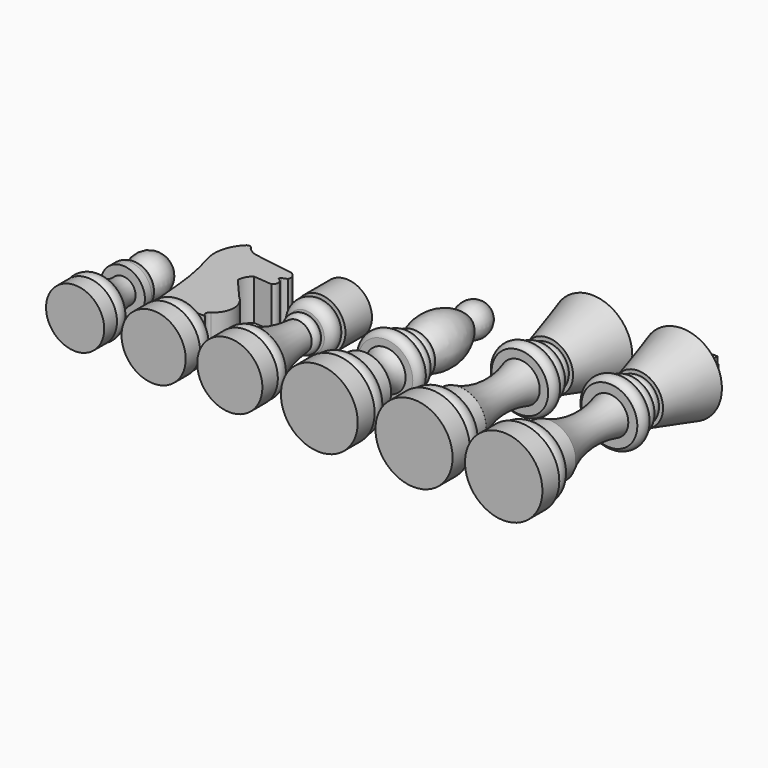
from build123d import *

# Parameters (mm, degrees)
F2_DEPTH = 2.54
F9_DEPTH = 10.16


with BuildPart() as f1:
    # F0 (on Top) → F1 (revolve)
    with BuildSketch(Plane.XY):
        with BuildLine():
            Line((0, 110.9642758965), (0, 0))
            Line((0, 0), (19.2919895053, -0.001945148))
            Line((19.2919895053, -0.001945148), (19.2919895053, 10.4918502411))
            Line((19.2919895053, 10.4918502411), (15.6080285741, 10.4918502411))
            ThreePointArc((15.6080285741, 10.4918502411), (17.8916221413, 15.672053517), (13.6049081358, 19.369808051))
            Line((13.6049081358, 19.369808051), (13.3906938136, 19.3858295679))
            Line((13.3906938136, 19.3858295679), (13.3906938136, 28.1178001314))
            ThreePointArc((13.3906938136, 28.1178001314), (7.7764554734, 46.5707095315), (9.4253802672, 65.7881647348))
            Line((9.4253802672, 65.7881647348), (13.9313237742, 65.7881647348))
            ThreePointArc((13.9313237742, 65.7881647348), (16.098702348, 69.740338154), (13.1350932643, 73.1365457177))
            Line((13.1350932643, 73.1365457177), (11.5236677229, 73.1365457177))
            ThreePointArc((11.5236677229, 73.1365457177), (13.3580178063, 76.0566815734), (11.5236677229, 78.9768174291))
            Line((11.5236677229, 78.9768174291), (9.4569297507, 78.9768174291))
            ThreePointArc((9.4569297507, 78.9768174291), (11.0133093368, 81.1224949937), (10.4017937556, 83.7016999722))
            Line((10.4017937556, 83.7016999722), (12.3997535557, 83.7016999722))
            Line((12.3997535557, 83.7016999722), (19.9190936983, 110.9642758965))
            Line((19.9190936983, 110.9642758965), (4.1418713517, 110.9642758965))
            Line((4.1418713517, 110.9642758965), (0, 110.9642758965))
        make_face()
    revolve(axis=Axis((0, 63.6315952757, 0), (0, 1, 0)))

    # F0 (on Top) → F2 (join, symmetric)
    with BuildSketch(Plane.XY):
        Polygon((-5.4727485403, 110.9642758965), (0, 110.9642758965), (0, 127.2631905514), (-5.4727485403, 127.2631905514), (-5.4727485403, 122.3715022206), (-10.4248970747, 122.3715022206), (-10.4248970747, 114.5452857018), (-5.4727485403, 114.5452857018), align=None)
        Polygon((0, 127.2631905514), (0, 110.9642758965), (4.1418713517, 110.9642758965), (4.1418713517, 114.5452857018), (9.0984776616, 114.5452857018), (9.0984776616, 122.3715022206), (4.7701047733, 122.3715022206), (4.7701047733, 127.2631905514), align=None)
    extrude(amount=F2_DEPTH, both=True)


with BuildPart() as f3:
    # F0 (on Top) → F3 (revolve)
    with BuildSketch(Plane.XY):
        with BuildLine():
            Line((-44.6819290519, 110.9151691198), (-44.6819290519, -0.001945148))
            Line((-44.6819290519, -0.001945148), (-25.4739355296, -0.001945148))
            Line((-25.4739355296, -0.001945148), (-25.4739355296, 10.6893107295))
            Line((-25.4739355296, 10.6893107295), (-28.511935845, 10.6893107295))
            ThreePointArc((-28.511935845, 10.6893107295), (-26.3364998951, 14.9219157174), (-28.511935845, 19.1545207053))
            Line((-28.511935845, 19.1545207053), (-31.1834365129, 19.1545207053))
            Line((-31.1834365129, 19.1545207053), (-31.1834365129, 28.0240885913))
            ThreePointArc((-31.1834365129, 28.0240885913), (-36.8406358688, 46.5976117226), (-34.7773432732, 65.9036338329))
            Line((-34.7773432732, 65.9036338329), (-30.5754560977, 65.9036338329))
            ThreePointArc((-30.5754560977, 65.9036338329), (-28.4739917253, 69.3723969162), (-30.5754560977, 72.8411599994))
            Line((-30.5754560977, 72.8411599994), (-33.0285541713, 72.8411599994))
            ThreePointArc((-33.0285541713, 72.8411599994), (-31.1298586485, 75.9327672422), (-33.0285541713, 79.024374485))
            Line((-33.0285541713, 79.024374485), (-35.0531898439, 79.024374485))
            ThreePointArc((-35.0531898439, 79.024374485), (-33.8060918807, 81.104190004), (-34.3190319836, 83.4743753076))
            Line((-34.3190319836, 83.4743753076), (-32.2588346899, 83.4743753076))
            Line((-32.2588346899, 83.4743753076), (-24.6908664703, 110.9151691198))
            Line((-24.6908664703, 110.9151691198), (-40.1440411806, 110.9151691198))
            Line((-40.1440411806, 110.9151691198), (-44.6819290519, 110.9151691198))
        make_face()
    revolve(axis=Axis((-44.6819290519, 55.4566119859, 0), (0, -1, 0)))

    # F0 (on Top) → F4 (revolve)
    with BuildSketch(Plane.XY):
        with BuildLine():
            Line((-44.6819290519, 116.6106536984), (-44.6819290519, 110.9151691198))
            Line((-44.6819290519, 110.9151691198), (-40.1440411806, 110.9151691198))
            ThreePointArc((-40.1440411806, 110.9151691198), (-41.3312766563, 114.6247646251), (-44.6819290519, 116.6106536984))
        make_face()
    revolve(axis=Axis((-44.6819290519, 113.7629114091, 0), (0, 1, 0)))


with BuildPart() as f5:
    # F0 (on Top) → F5 (revolve)
    with BuildSketch(Plane.XY):
        with BuildLine():
            Line((-91.8388962746, 104.1856631637), (-91.8388962746, -0.001945148))
            Line((-91.8388962746, -0.001945148), (-72.7043747902, -0.001945148))
            Line((-72.7043747902, -0.001945148), (-72.7043747902, 10.5059081689))
            Line((-72.7043747902, 10.5059081689), (-75.9331434965, 10.5059081689))
            ThreePointArc((-75.9331434965, 10.5059081689), (-73.4703010683, 15.3385724057), (-77.3300677538, 19.1494040191))
            Line((-77.3300677538, 19.1494040191), (-78.3777683973, 19.1494040191))
            Line((-78.3777683973, 19.1494040191), (-78.3777683973, 27.8802085668))
            ThreePointArc((-78.3777683973, 27.8802085668), (-83.4378897739, 33.6541272395), (-81.7827805877, 41.1510318518))
            Line((-81.7827805877, 41.1510318518), (-78.2195553184, 41.1510318518))
            ThreePointArc((-78.2195553184, 41.1510318518), (-75.6960897656, 44.7919517756), (-78.2195553184, 48.4328716993))
            Line((-78.2195553184, 48.4328716993), (-80.7495862246, 48.4328716993))
            ThreePointArc((-80.7495862246, 48.4328716993), (-78.4143322205, 51.4579061419), (-80.7495862246, 54.4829405844))
            Line((-80.7495862246, 54.4829405844), (-82.278907299, 54.4829405844))
            ThreePointArc((-82.278907299, 54.4829405844), (-80.7612596429, 57.176085189), (-82.278907299, 59.8692297935))
            Line((-82.278907299, 59.8692297935), (-83.3534598351, 59.8692297935))
            ThreePointArc((-83.3534598351, 59.8692297935), (-79.9398439058, 75.1912832355), (-86.2390846014, 89.569658041))
            ThreePointArc((-86.2390846014, 89.569658041), (-84.3279412306, 98.6825989643), (-91.8388962746, 104.1856631637))
        make_face()
    revolve(axis=Axis((-91.8388962746, 52.0918590078, 0), (0, -1, 0)))


with BuildPart() as f6:
    # F0 (on Top) → F6 (revolve)
    with BuildSketch(Plane.XY):
        with BuildLine():
            Line((-136.4291906357, 72.6398006082), (-136.4291906357, -0.001945148))
            Line((-136.4291906357, -0.001945148), (-120.1965361834, -0.001945148))
            Line((-120.1965361834, -0.001945148), (-120.1965361834, 9.6229044721))
            Line((-120.1965361834, 9.6229044721), (-122.6443201303, 9.6229044721))
            ThreePointArc((-122.6443201303, 9.6229044721), (-120.3352881317, 13.3589948528), (-122.6443201303, 17.0950852334))
            ThreePointArc((-122.6443201303, 17.0950852334), (-127.1921661617, 29.1935850511), (-129.2146742344, 41.9594012201))
            ThreePointArc((-129.2146742344, 41.9594012201), (-127.5682346906, 44.6648448706), (-129.2146742344, 47.3702885211))
            Line((-129.2146742344, 47.3702885211), (-127.228051424, 47.3702885211))
            ThreePointArc((-127.228051424, 47.3702885211), (-124.0595872968, 51.373319225), (-125.9265691042, 56.1249293387))
            Line((-125.9265691042, 56.1249293387), (-123.736448586, 56.1249293387))
            Line((-123.736448586, 56.1249293387), (-123.736448586, 72.6398006082))
            Line((-123.736448586, 72.6398006082), (-136.4291906357, 72.6398006082))
        make_face()
    revolve(axis=Axis((-136.4291906357, 36.3189277301, 0), (0, -1, 0)))


with BuildPart() as f7:
    # F0 (on Top) → F7 (revolve)
    with BuildSketch(Plane.XY):
        with BuildLine():
            Line((-213.4834676981, 55.4568059742), (-213.4834676981, -0.001945148))
            Line((-213.4834676981, -0.001945148), (-198.9903301001, -0.001945148))
            Line((-198.9903301001, -0.001945148), (-198.9903301001, 7.9451035708))
            Line((-198.9903301001, 7.9451035708), (-200.0682353973, 7.9451035708))
            ThreePointArc((-200.0682353973, 7.9451035708), (-198.7346972145, 11.2288412638), (-200.0682353973, 14.5125789568))
            ThreePointArc((-200.0682353973, 14.5125789568), (-205.4658651812, 21.2412907679), (-207.1186453104, 29.7075938433))
            Line((-207.1186453104, 29.7075938433), (-202.4985849857, 29.7075938433))
            Line((-202.4985849857, 29.7075938433), (-202.4985849857, 33.7776392698))
            ThreePointArc((-202.4985849857, 33.7776392698), (-203.3135486382, 36.3865494256), (-205.4686248302, 38.0676873028))
            Line((-205.4686248302, 38.0676873028), (-207.0468163383, 38.6611914787))
            ThreePointArc((-207.0468163383, 38.6611914787), (-204.1418002722, 49.4056717813), (-213.4834676981, 55.4568059742))
        make_face()
    revolve(axis=Axis((-213.4834676981, 27.7274304131, 0), (0, -1, 0)))


with BuildPart() as f8:
    # F0 (on Top) → F8 (revolve)
    with BuildSketch(Plane.XY):
        with BuildLine():
            Line((-174.3871122599, 17.7684053779), (-174.3871122599, -0.001945148))
            Line((-174.3871122599, -0.001945148), (-158.3977043629, -0.001945148))
            Line((-158.3977043629, -0.001945148), (-158.3977043629, 8.8909277692))
            Line((-158.3977043629, 8.8909277692), (-161.0972136259, 8.8909277692))
            ThreePointArc((-161.0972136259, 8.8909277692), (-158.8850630658, 13.9937401169), (-162.9696935415, 17.7684053779))
            Line((-162.9696935415, 17.7684053779), (-174.3871122599, 17.7684053779))
        make_face()
    revolve(axis=Axis((-174.3871122599, 8.8832301149, 0), (0, -1, 0)))

    # F0 (on Top) → F9 (join, symmetric)
    with BuildSketch(Plane.XY):
        with BuildLine():
            Line((-186.3909636555, 17.8088458306), (-174.3871122599, 17.7684053779))
            Line((-174.3871122599, 17.7684053779), (-162.9696935415, 17.7684053779))
            ThreePointArc((-162.9696935415, 17.7684053779), (-164.254830327, 19.6789195761), (-162.9696935415, 21.5894337744))
            ThreePointArc((-162.9696935415, 21.5894337744), (-158.4550103332, 29.6532944259), (-162.1921545406, 38.1056293845))
            Line((-162.1921545406, 38.1056293845), (-172.0369160175, 49.4702458382))
            ThreePointArc((-172.0369160175, 49.4702458382), (-171.1904060101, 52.9310922821), (-168.8864082098, 55.6487441063))
            Line((-168.8864082098, 55.6487441063), (-159.6744209528, 54.8647418618))
            ThreePointArc((-159.6744209528, 54.8647418618), (-158.1700302866, 57.3147423565), (-159.6744209528, 59.7647428513))
            ThreePointArc((-159.6744209528, 59.7647428513), (-160.3251637179, 60.5487413704), (-159.6744209528, 61.3327398896))
            Line((-159.6744209528, 61.3327398896), (-157.2646945715, 62.3050220311))
            ThreePointArc((-157.2646945715, 62.3050220311), (-157.4655084921, 65.3005833312), (-159.7537398338, 67.2442167997))
            Line((-159.7537398338, 67.2442167997), (-179.1148930788, 70.2893361449))
            ThreePointArc((-179.1148930788, 70.2893361449), (-182.7055990218, 71.650838608), (-185.4483634233, 74.3386074901))
            ThreePointArc((-185.4483634233, 74.3386074901), (-186.590462923, 74.7569691066), (-187.7325624228, 74.3386074901))
            ThreePointArc((-187.7325624228, 74.3386074901), (-192.6662924513, 65.8164282049), (-192.3929750919, 55.9729263186))
            ThreePointArc((-192.3929750919, 55.9729263186), (-189.4486701358, 44.3391828137), (-187.7325624228, 32.4619822204))
            Line((-187.7325624228, 32.4619822204), (-186.3909636555, 17.8088458306))
        make_face()
    extrude(amount=F9_DEPTH, both=True)


solid = Compound([f1.part, f3.part, f5.part, f6.part, f7.part, f8.part])
